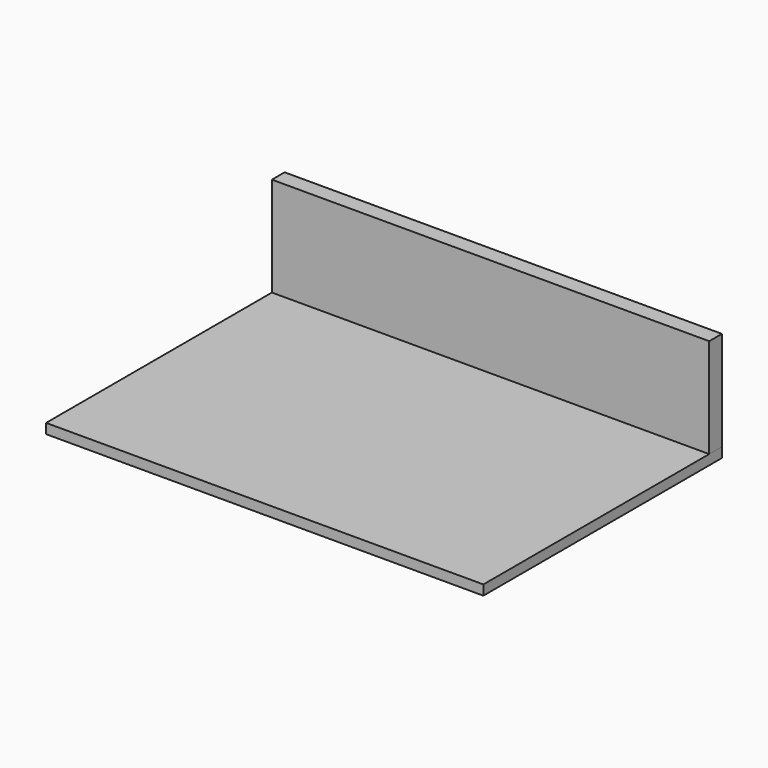
from build123d import *

# Parameters (mm, degrees)
F0_W     = 220
F0_H     = 150
F1_DEPTH = 5
F2_W     = 220
F2_H     = 8
F3_DEPTH = 50


with BuildPart() as f1:
    # F0 (on Top) → F1 (new body)
    with BuildSketch(Plane.XY):
        Rectangle(F0_W, F0_H)
    extrude(amount=F1_DEPTH)


with BuildPart() as f3:
    # F2 (on face) → F3 (new body)
    with BuildSketch(Plane.XY.offset(5)):
        with Locations((0, 71)):
            Rectangle(F2_W, F2_H)
    extrude(amount=F3_DEPTH)


solid = Compound([f1.part, f3.part])
